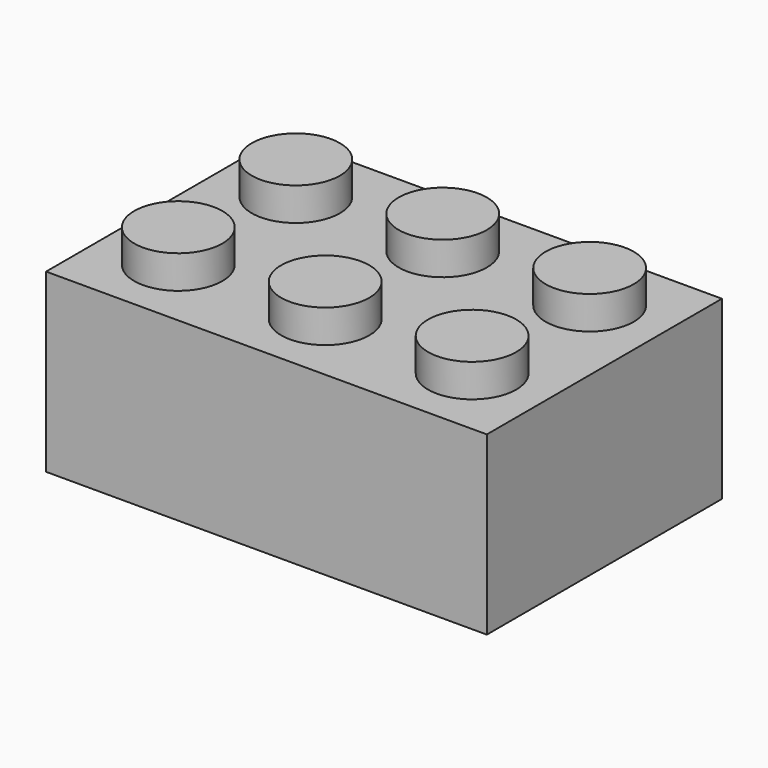
from build123d import *

# Parameters (mm, degrees)
F0_W     = 24
F0_H     = 16
F1_DEPTH = 9.6
F2_R     = 2.4
F3_DEPTH = 1.8


with BuildPart() as f1:
    # F0 (on Top) → F1 (new body)
    with BuildSketch(Plane.XY):
        with Locations((-12, 8)):
            Rectangle(F0_W, F0_H)
    extrude(amount=F1_DEPTH)

    # F2 (on face) → F3 (join)
    with BuildSketch(Plane.XY.offset(9.6)):
        with Locations((-20, 12)):
            Circle(F2_R)
        with Locations((-12, 12)):
            Circle(F2_R)
        with Locations((-4, 12)):
            Circle(F2_R)
        with Locations((-12, 4)):
            Circle(F2_R)
        with Locations((-4, 4)):
            Circle(F2_R)
        with Locations((-20, 4)):
            Circle(F2_R)
    extrude(amount=F3_DEPTH)


solid = f1.part
